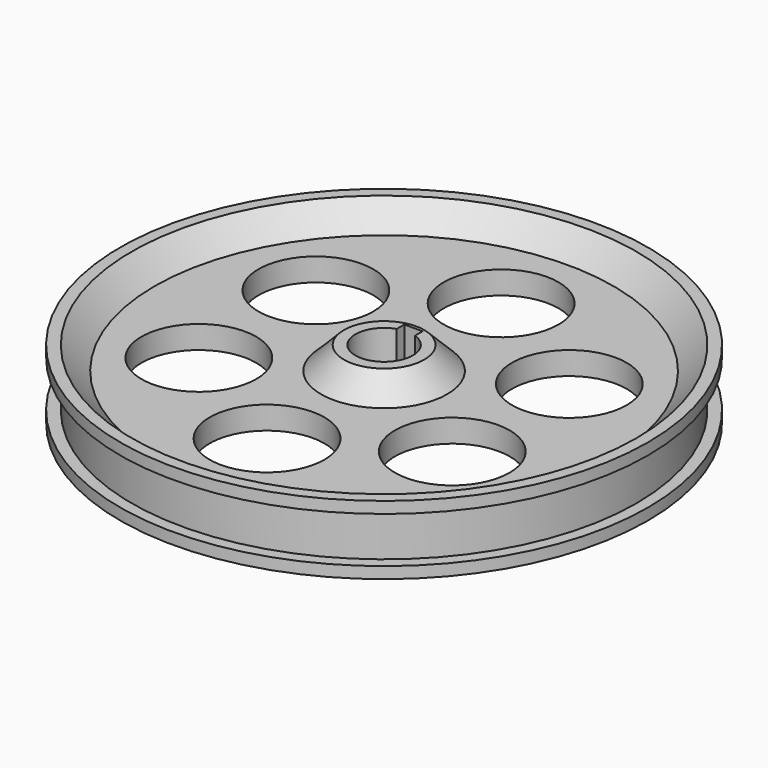
from build123d import *

# Parameters (mm, degrees)
F2_R     = 25
F3_DEPTH = 30.001


with BuildPart() as f1:
    # F0 (on Front) → F1 (revolve)
    with BuildSketch(Plane.XZ):
        Polygon((17.5, 15), (12.5, 15), (12.5, -15), (17.5, -15), (27.5, -5), (100, -5), (110, -15), (115, -15), (115, -10), (110, -10), (110, 10), (115, 10), (115, 15), (110, 15), (100, 5), (27.5, 5), align=None)
    revolve(axis=Axis((0, 0, -2.419355), (0, 0, -1)))

    # F2 (on face) → F3 (cut, through all)
    with BuildSketch(Plane.XY.offset(15)):
        with Locations((-55.209119, 31.875)):
            Circle(F2_R)
        with Locations((0, 63.75)):
            Circle(F2_R)
        with Locations((55.209119, 31.875)):
            Circle(F2_R)
        with Locations((55.209119, -31.875)):
            Circle(F2_R)
        with Locations((0, -63.75)):
            Circle(F2_R)
        with Locations((-55.209119, -31.875)):
            Circle(F2_R)
        with BuildLine():
            Line((-4, 16), (-4, 11.842719))
            ThreePointArc((-4, 11.842719), (0, 12.5), (4, 11.842719))
            Line((4, 11.842719), (4, 16))
            Line((4, 16), (-4, 16))
        make_face()
    extrude(amount=-F3_DEPTH, mode=Mode.SUBTRACT)


solid = f1.part
